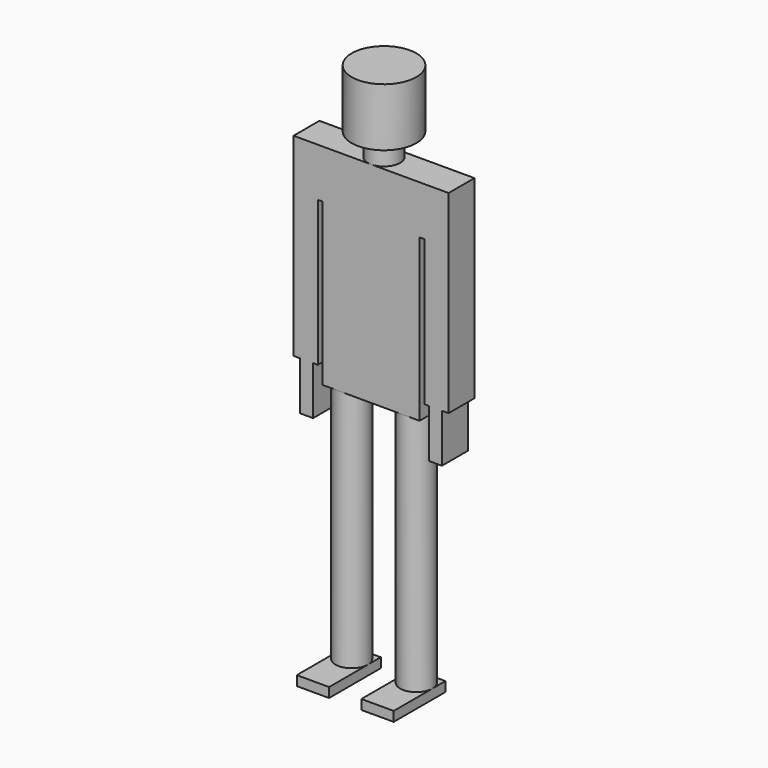
from build123d import *

# Parameters (mm, degrees)
F0_W      = 100
F0_H      = 200
F1_DEPTH  = 30
F2_R      = 50
F3_DEPTH  = 750
F4_W      = 150
F4_H      = 100
F5_DEPTH  = 650
F6_R      = 50
F7_DEPTH  = 250
F8_W      = 240
F8_H      = 100
F9_DEPTH  = 150
F10_W     = 75
F10_H     = 100
F11_DEPTH = 450
F12_W     = 39.883688
F12_H     = 100
F13_DEPTH = 150
F15_R     = 100
F16_DEPTH = 180


with BuildPart() as f1:
    # F0 (on Top) → F1 (new body)
    with BuildSketch(Plane.XY):
        with Locations((-100, -100)):
            Rectangle(F0_W, F0_H)
    extrude(amount=F1_DEPTH)

    # F2 (on face) → F3 (join)
    with BuildSketch(Plane.XY.offset(30)):
        with Locations((-100, -50)):
            Circle(F2_R)
    extrude(amount=F3_DEPTH)

    # F4 (on face) → F5 (join)
    with BuildSketch(Plane.XY.offset(780)):
        with Locations((-75, -50)):
            Rectangle(F4_W, F4_H)
    extrude(amount=F5_DEPTH)

    # F6 (on face) → F7 (join)
    with BuildSketch(Plane.XY.offset(1430)):
        with Locations((0, -50)):
            Circle(F6_R)
    extrude(amount=F7_DEPTH)

    # F8 (on face) → F9 (join)
    with BuildSketch(Plane.XY.offset(1430)):
        with Locations((-120, -50)):
            Rectangle(F8_W, F8_H)
    extrude(amount=-F9_DEPTH)

    # F10 (on face) → F11 (join)
    with BuildSketch(Plane(origin=(0, 0, 1280), x_dir=(1, 0, 0), z_dir=(0, 0, -1))):
        with Locations((-202.5, 50)):
            Rectangle(F10_W, F10_H)
    extrude(amount=F11_DEPTH)

    # F12 (on face) → F13 (join)
    with BuildSketch(Plane(origin=(0, 0, 830), x_dir=(1, 0, 0), z_dir=(0, 0, -1))):
        with Locations((-199.432023, 50)):
            Rectangle(F12_W, F12_H)
    extrude(amount=F13_DEPTH)

    # F14: F1 across plane


with BuildPart() as f1_1:
    add(f1.part)
    add(f1.part.mirror(Plane.YZ))

    # F15 (on face) → F16 (join)
    with BuildSketch(Plane.XY.offset(1680)):
        with Locations((0, -50)):
            Circle(F15_R)
    extrude(amount=-F16_DEPTH)


solid = f1_1.part
